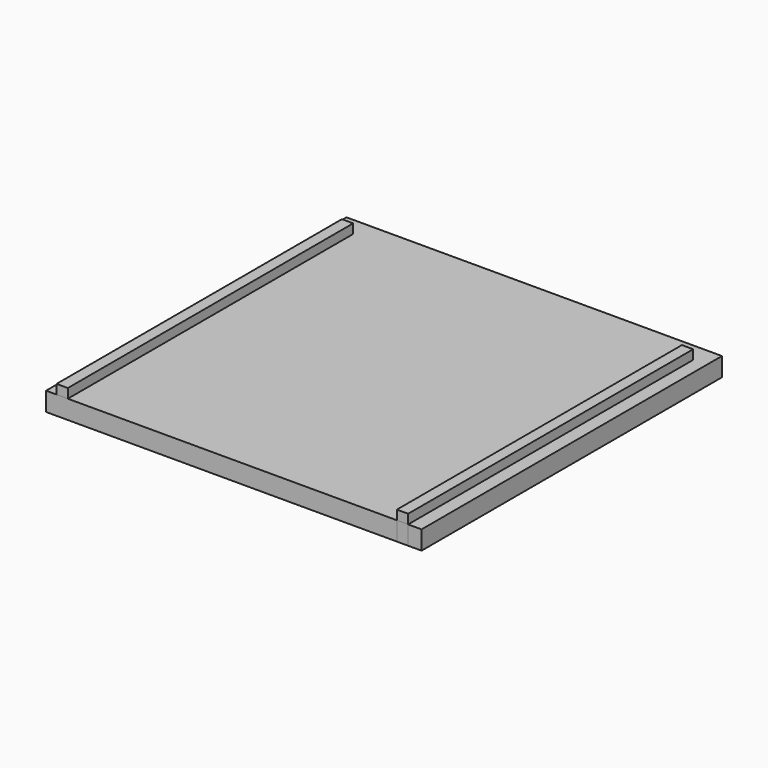
from build123d import *

# Parameters (mm, degrees)
F0_W     = 0.762
F0_H     = 24.105033
F0_H_2   = 24.13
F1_DEPTH = 1.905
F2_DEPTH = 1.27


with BuildPart() as f1:
    # F0 (on Top) → F1 (new body)
    with BuildSketch(Plane.XY):
        with Locations((11.465776, -2.490217)):
            Rectangle(F0_W, F0_H)
        with Locations((-11.556362, -2.477733)):
            Rectangle(F0_W, F0_H_2)
    extrude(amount=F1_DEPTH)


with BuildPart() as f2:
    # F0 (on Top) → F2 (new body)
    with BuildSketch(Plane.XY):
        Polygon((11.846776, -14.542733), (12.754352, -14.542733), (12.754352, 10.857267), (-12.645648, 10.857267), (-12.645648, -14.542733), (-11.937362, -14.542733), (-11.937362, 9.587267), (-11.175362, 9.587267), (-11.175362, -14.542733), (11.084776, -14.542733), (11.084776, 9.5623), (11.846776, 9.5623), align=None)
        with Locations((-11.556362, -2.477733)):
            Rectangle(F0_W, F0_H_2)
        with Locations((11.465776, -2.490217)):
            Rectangle(F0_W, F0_H)
    extrude(amount=F2_DEPTH)


solid = Compound([f1.part, f2.part])
